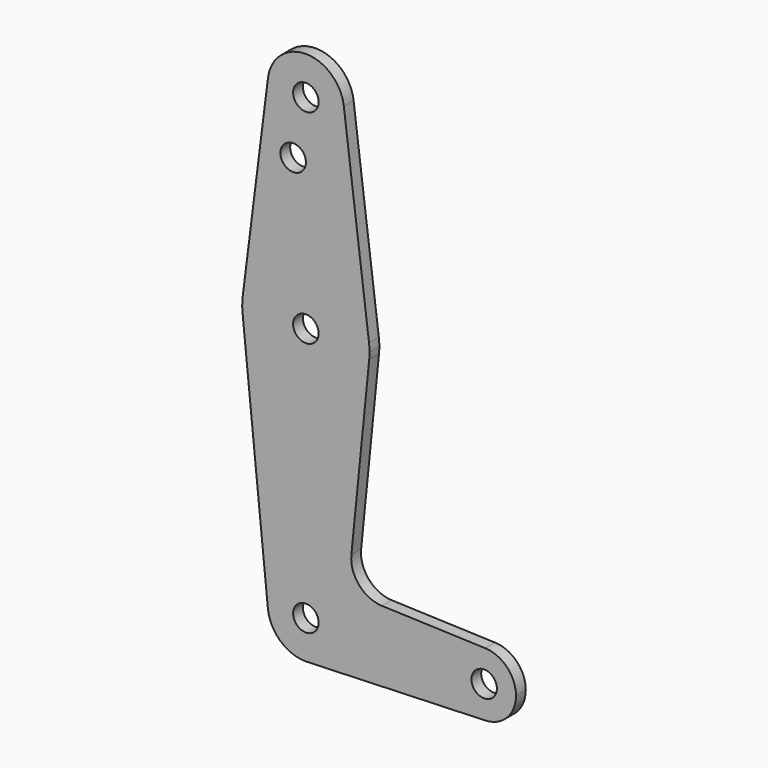
from build123d import *

# Parameters (mm, degrees)
F0_R     = 3.175
F1_DEPTH = 3.048


with BuildPart() as f1:
    # F0 (on Front) → F1 (new body)
    with BuildSketch(Plane.XZ):
        with BuildLine():
            ThreePointArc((-9.477255, -0.9525), (-0.476848, 9.513056), (9.525, 0))
            ThreePointArc((9.525, 0), (6.970557, -6.491299), (0.677344, -9.500886))
            Line((0.677344, -9.500886), (44.732405, -7.932475))
            ThreePointArc((44.732405, -7.932475), (36.5125, 0), (44.732405, 7.932475))
            Line((44.732405, 7.932475), (18.968328, 8.849706))
            ThreePointArc((18.968328, 8.849706), (13.261204, 11.567463), (11.340836, 17.589892))
            Line((11.340836, 17.589892), (15.795426, 61.9125))
            ThreePointArc((15.795426, 61.9125), (0, 47.625), (-15.795426, 61.9125))
            Line((-15.795426, 61.9125), (-9.477255, -0.9525))
        make_face()
        with BuildLine():
            Line((-9.450293, 115.490625), (-15.750488, 65.484375))
            ThreePointArc((-15.750488, 65.484375), (0, 79.375), (15.750488, 65.484375))
            Line((15.750488, 65.484375), (9.450293, 115.490625))
            ThreePointArc((9.450293, 115.490625), (9.506305, 114.896483), (9.525, 114.3))
            ThreePointArc((9.525, 114.3), (-0.596483, 104.793695), (-9.450293, 115.490625))
        make_face()
        with Locations((-3.175, 100.0252)):
            Circle(F0_R, mode=Mode.SUBTRACT)
        with BuildLine():
            ThreePointArc((9.450293, 115.490625), (0, 123.825), (-9.450293, 115.490625))
            ThreePointArc((-9.450293, 115.490625), (-0.596483, 104.793695), (9.525, 114.3))
            ThreePointArc((9.525, 114.3), (9.506305, 114.896483), (9.450293, 115.490625))
        make_face()
        with Locations((0, 114.3)):
            Circle(F0_R, mode=Mode.SUBTRACT)
        with BuildLine():
            ThreePointArc((-15.750488, 65.484375), (-15.873744, 63.699705), (-15.795426, 61.9125))
            ThreePointArc((-15.795426, 61.9125), (0, 47.625), (15.795426, 61.9125))
            ThreePointArc((15.795426, 61.9125), (15.855094, 62.705253), (15.875, 63.5))
            ThreePointArc((15.875, 63.5), (15.843841, 64.494139), (15.750488, 65.484375))
            ThreePointArc((15.750488, 65.484375), (0, 79.375), (-15.750488, 65.484375))
        make_face()
        with Locations((0, 63.5)):
            Circle(F0_R, mode=Mode.SUBTRACT)
        with BuildLine():
            ThreePointArc((0.677344, -9.500886), (6.970557, -6.491299), (9.525, 0))
            ThreePointArc((9.525, 0), (-0.476848, 9.513056), (-9.477255, -0.9525))
            ThreePointArc((-9.477255, -0.9525), (-6.389564, -7.063929), (0, -9.525))
            Line((0, -9.525), (0.677344, -9.500886))
        make_face()
        Circle(F0_R, mode=Mode.SUBTRACT)
        with BuildLine():
            ThreePointArc((44.732405, 7.932475), (36.5125, 0), (44.732405, -7.932475))
            ThreePointArc((44.732405, -7.932475), (50.161633, -5.51191), (52.3875, 0))
            ThreePointArc((52.3875, 0), (50.161633, 5.51191), (44.732405, 7.932475))
        make_face()
        with Locations((44.45, 0)):
            Circle(F0_R, mode=Mode.SUBTRACT)
    extrude(amount=F1_DEPTH)


solid = f1.part
